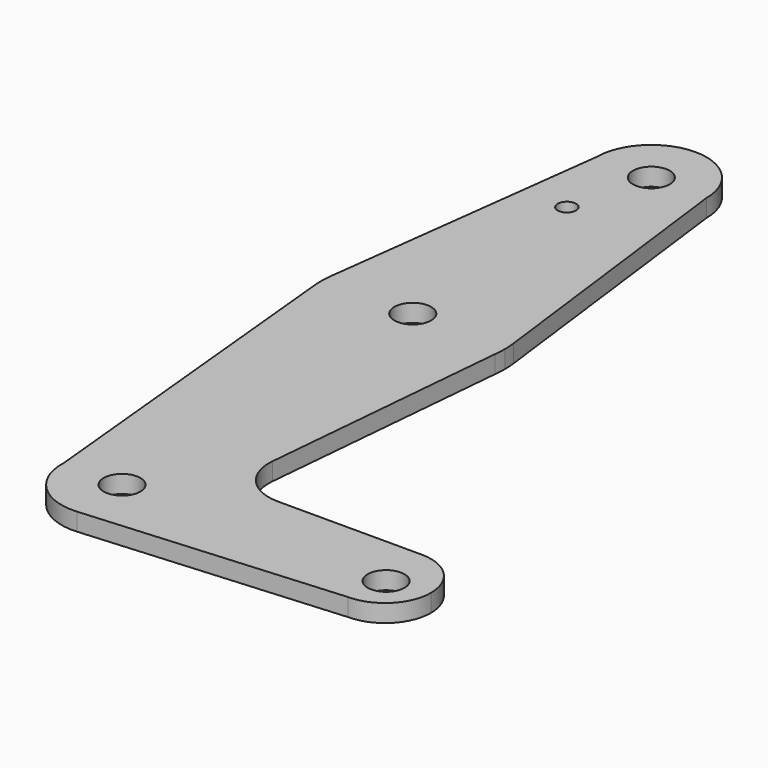
from build123d import *

# Parameters (mm, degrees)
F0_R     = 3.175
F0_R_2   = 1.5875
F1_DEPTH = 3.048


with BuildPart() as f1:
    # F0 (on Top) → F1 (new body)
    with BuildSketch(Plane.XY):
        with BuildLine():
            ThreePointArc((-9.525, 114.3), (0, 104.775), (9.525, 114.3))
            ThreePointArc((9.525, 114.3), (0, 123.825), (-9.525, 114.3))
        make_face()
        with Locations((0, 114.3)):
            Circle(F0_R, mode=Mode.SUBTRACT)
        with BuildLine():
            Line((15.750729, 64.836387), (9.525, 114.3))
            ThreePointArc((9.525, 114.3), (0, 104.775), (-9.525, 114.3))
            Line((-9.525, 114.3), (-15.750729, 64.836387))
            ThreePointArc((-15.750729, 64.836387), (0, 78.728924), (15.750729, 64.836387))
        make_face()
        with Locations((-3.488187, 100.445924)):
            Circle(F0_R_2, mode=Mode.SUBTRACT)
        with BuildLine():
            ThreePointArc((15.875, 62.853924), (15.843902, 63.847101), (15.750729, 64.836387))
            ThreePointArc((15.750729, 64.836387), (0, 78.728924), (-15.750729, 64.836387))
            ThreePointArc((-15.750729, 64.836387), (-15.875, 62.853924), (-15.750729, 60.871462))
            ThreePointArc((-15.750729, 60.871462), (0, 46.978924), (15.750729, 60.871462))
            ThreePointArc((15.750729, 60.871462), (15.843902, 61.860747), (15.875, 62.853924))
        make_face()
        with Locations((-0.282163, 63.186049)):
            Circle(F0_R, mode=Mode.SUBTRACT)
        with BuildLine():
            ThreePointArc((15.750729, 60.871462), (0, 46.978924), (-15.750729, 60.871462))
            Line((-15.750729, 60.871462), (-9.77514, -0.262389))
            ThreePointArc((-9.77514, -0.262389), (-0.044493, 8.829508), (9.265119, -0.693056))
            ThreePointArc((9.265119, -0.693056), (6.725519, -7.168379), (0.460961, -10.190741))
            Line((0.460961, -10.190741), (44.5993, -6.840791))
            ThreePointArc((44.5993, -6.840791), (36.6618, 1.096709), (44.5993, 9.034209))
            Line((44.5993, 9.034209), (19.787523, 9.034209))
            ThreePointArc((19.787523, 9.034209), (13.919598, 11.620349), (11.869256, 17.696266))
            Line((11.869256, 17.696266), (15.750729, 60.871462))
        make_face()
        with BuildLine():
            ThreePointArc((9.265119, -0.693056), (-0.044493, 8.829508), (-9.77514, -0.262389))
            ThreePointArc((-9.77514, -0.262389), (-6.891509, -7.530244), (0.460961, -10.190741))
            ThreePointArc((0.460961, -10.190741), (6.725519, -7.168379), (9.265119, -0.693056))
        make_face()
        with Locations((0.322241, -0.276352)):
            Circle(F0_R, mode=Mode.SUBTRACT)
        with BuildLine():
            ThreePointArc((44.5993, 9.034209), (36.6618, 1.096709), (44.5993, -6.840791))
            ThreePointArc((44.5993, -6.840791), (50.21196, -4.515951), (52.5368, 1.096709))
            ThreePointArc((52.5368, 1.096709), (50.21196, 6.709369), (44.5993, 9.034209))
        make_face()
        with Locations((45.652531, 0.025849)):
            Circle(F0_R, mode=Mode.SUBTRACT)
    extrude(amount=F1_DEPTH)


solid = f1.part
